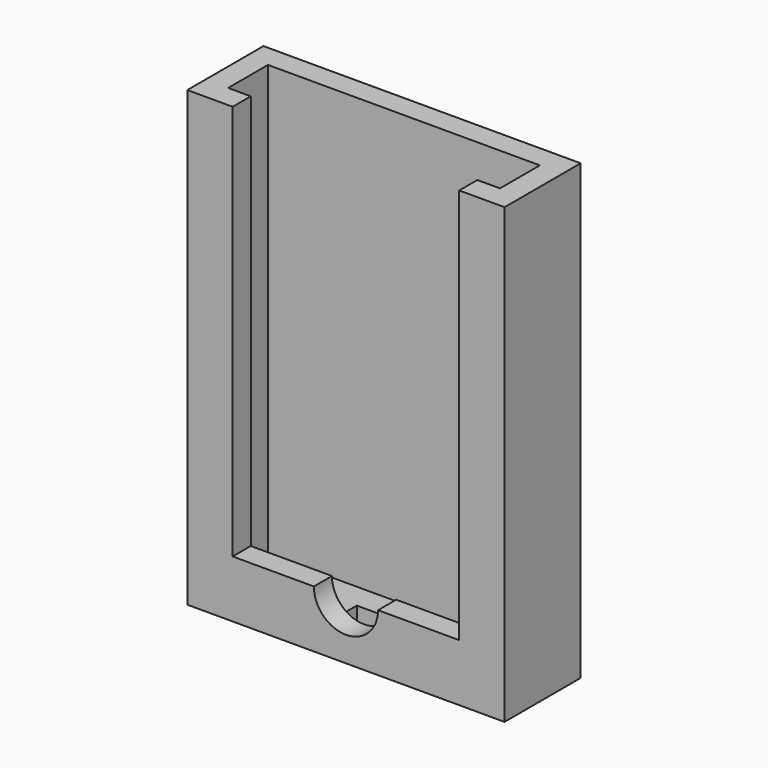
from build123d import *

# Parameters (mm, degrees)
F1_DEPTH = 6.35
F0_W     = 88.9
F0_H     = 26.67
F2_DEPTH = 127
F4_DEPTH = 6.35


with BuildPart() as f1:
    # F0 (on Top) → F1 (new body)
    with BuildSketch(Plane.XY):
        Polygon((38.1, -6.985), (38.1, 6.985), (-38.1, 6.985), (-38.1, -6.985), (-7.62, -6.985), (-7.62, 0), (7.62, 0), (7.62, -6.985), align=None)
    extrude(amount=F1_DEPTH)

    # F0 (on Top) → F2 (join)
    with BuildSketch(Plane.XY):
        Rectangle(F0_W, F0_H)
        Polygon((-38.1, 6.985), (38.1, 6.985), (38.1, -6.985), (7.62, -6.985), (-7.62, -6.985), (-38.1, -6.985), align=None, mode=Mode.SUBTRACT)
    extrude(amount=F2_DEPTH)

    # F3 (on face) → F4 (cut, through all)
    with BuildSketch(Plane.XZ.offset(13.335)):
        with BuildLine():
            Line((31.75, 127), (-31.75, 127))
            Line((-31.75, 127), (-31.75, 16.0443484783))
            Line((-31.75, 16.0443484783), (-8.9978614884, 16.0443484783))
            ThreePointArc((-8.9978614884, 16.0443484783), (0, 25.0422099667), (8.9978614884, 16.0443484783))
            Line((8.9978614884, 16.0443484783), (31.75, 16.0443484783))
            Line((31.75, 16.0443484783), (31.75, 127))
        make_face()
        with BuildLine():
            ThreePointArc((8.9978614884, 16.0443484783), (0, 25.0422099667), (-8.9978614884, 16.0443484783))
            Line((-8.9978614884, 16.0443484783), (8.9978614884, 16.0443484783))
        make_face()
        with BuildLine():
            Line((8.9978614884, 16.0443484783), (-8.9978614884, 16.0443484783))
            ThreePointArc((-8.9978614884, 16.0443484783), (0, 7.0464869899), (8.9978614884, 16.0443484783))
        make_face()
    extrude(amount=-F4_DEPTH, mode=Mode.SUBTRACT)


solid = f1.part
